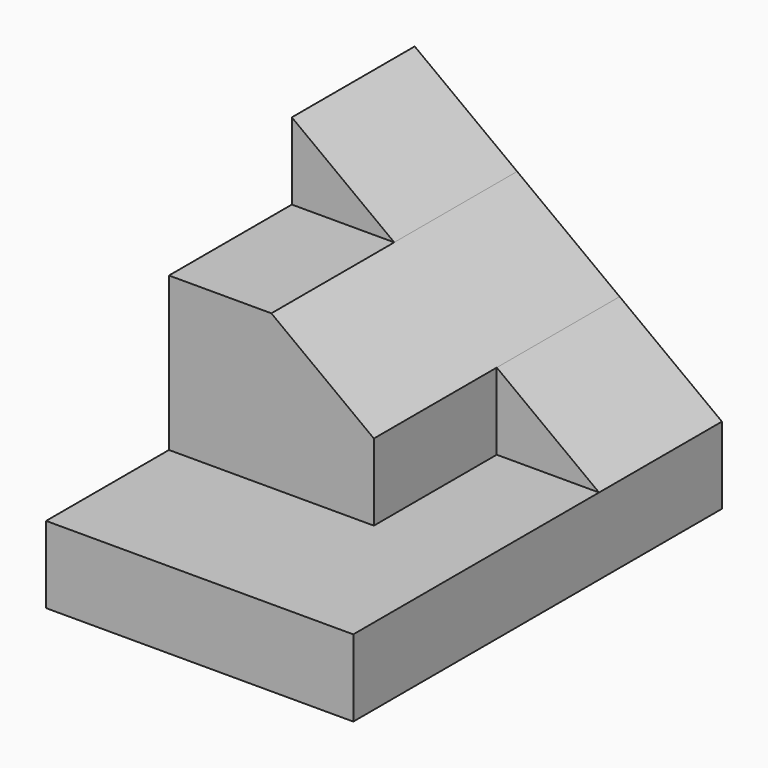
from build123d import *

# Parameters (mm, degrees)
F1_DEPTH = 38.1
F2_DEPTH = 12.7
F3_DEPTH = 25.4


with BuildPart() as f1:
    # F0 (on Front) → F1 (new body)
    with BuildSketch(Plane.XZ):
        Polygon((0, 6.35), (0, 0), (25.4, 0), (25.4, 6.35), (16.9418, 6.35), align=None)
    extrude(amount=F1_DEPTH)

    # F0 (on Front) → F2 (join)
    with BuildSketch(Plane.XZ):
        Polygon((0, 25.4), (0, 19.05), (8.466667, 19.05), align=None)
        Polygon((16.9418, 6.35), (25.4, 6.35), (16.9418, 12.69365), align=None)
    extrude(amount=F2_DEPTH)


with BuildPart() as f3:
    # F0 (on Front) → F3 (new body)
    with BuildSketch(Plane.XZ):
        Polygon((0, 19.05), (0, 6.35), (16.9418, 6.35), (16.9418, 12.69365), (8.466667, 19.05), align=None)
    extrude(amount=F3_DEPTH)


solid = Compound([f1.part, f3.part])
